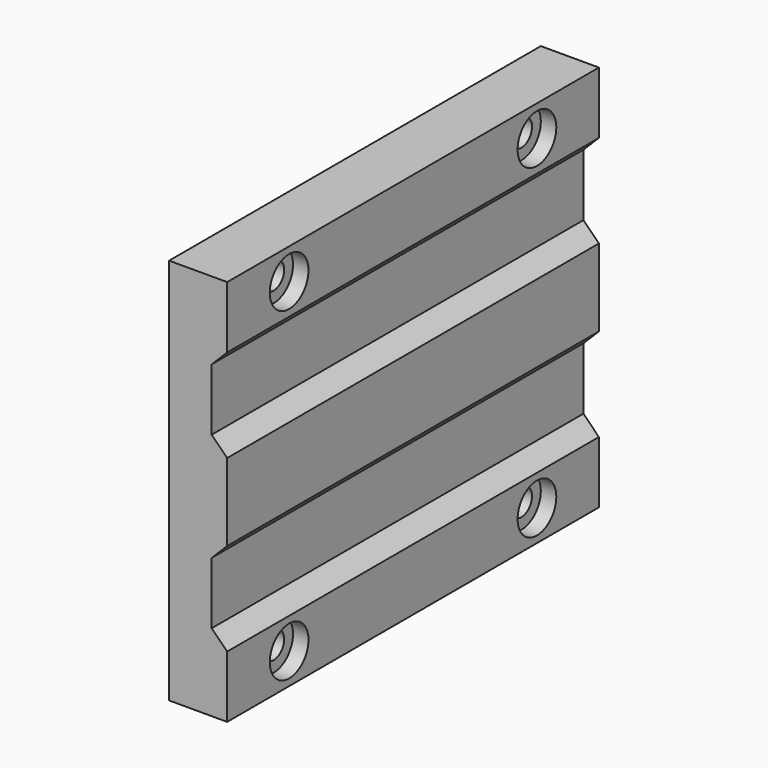
from build123d import *

# Parameters (mm, degrees)
F1_DEPTH = 76.2
F4_D     = 4.318
F4_DEPTH = 12.7
F4_TIP   = 1.2972580765
F5_R     = 3.96875
F5_R_2   = 2.159
F6_DEPTH = 2.54


with BuildPart() as f1:
    # F0 (on Front) → F1 (new body)
    with BuildSketch(Plane.XZ):
        Polygon((0, 63.5), (0, 0), (9.525, 0), (9.525, 10.16), (6.985, 12.7), (6.985, 22.86), (9.525, 25.4), (9.525, 38.1), (6.985, 40.64), (6.985, 50.8), (9.525, 53.34), (9.525, 63.5), align=None)
    extrude(amount=F1_DEPTH)

    # F4
    with Locations(Plane.YZ.offset(9.525)):
        with Locations((-63.5, 58.42), (-12.7, 58.42), (-63.5, 5.08), (-12.7, 5.08)):
            Hole(F4_D / 2, depth=F4_DEPTH)
            with Locations((0, 0, -(F4_DEPTH + F4_TIP / 2))):  # 118° drill point
                Cone(0, F4_D / 2, F4_TIP, mode=Mode.SUBTRACT)

    # F5 (on face) → F6 (cut)
    with BuildSketch(Plane.YZ.offset(9.525)):
        with Locations((-63.5, 58.42)):
            Circle(F5_R)
        with Locations((-12.7, 58.42)):
            Circle(F5_R)
        with Locations((-63.5, 5.08)):
            Circle(F5_R)
        with Locations((-63.5, 5.08)):
            Circle(F5_R_2, mode=Mode.SUBTRACT)
        with Locations((-12.7, 5.08)):
            Circle(F5_R)
        with Locations((-12.7, 5.08)):
            Circle(F5_R_2, mode=Mode.SUBTRACT)
    extrude(amount=-F6_DEPTH, mode=Mode.SUBTRACT)


solid = f1.part
